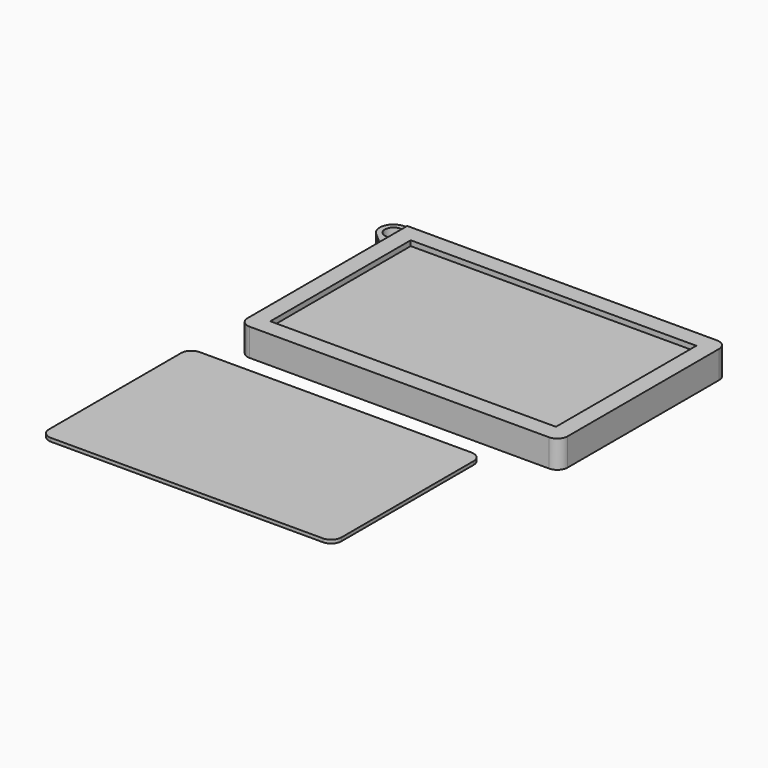
from build123d import *

# Parameters (mm, degrees)
F0_W          = 93
F0_H          = 61
F1_DEPTH      = 8
F2_R          = 3
F3_W          = 57
F3_H          = 1.5
F4_DEPTH      = 90
F5_W          = 83
F5_H          = 51
F6_DEPTH      = 1.5
F6_DEPTH_BACK = 25
F7_W          = 30
F7_H          = 3
F7_W_2        = 24
F8_DEPTH      = 80
F10_DEPTH     = 2
F12_DEPTH     = 5
F13_R         = 2.5
F14_DEPTH     = 5
F16_W         = 24
F16_H         = 3
F17_DEPTH     = 25
F19_DEPTH     = 1


with BuildPart() as f1:
    # F0 (on Top) → F1 (new body)
    with BuildSketch(Plane.XY):
        with Locations((46.5, 30.5)):
            Rectangle(F0_W, F0_H)
    extrude(amount=F1_DEPTH)

    # F2
    f2_edges = [f1.edges().sort_by_distance(p)[0] for p in [
        (93, 0, 4),
        (93, 61, 4),
        (0, 0, 4),
    ]]
    fillet(f2_edges, radius=F2_R)

    # F3 (on Right) → F4 (cut)
    with BuildSketch(Plane.YZ):
        with Locations((30.5, 5.75)):
            Rectangle(F3_W, F3_H)
    extrude(amount=F4_DEPTH, mode=Mode.SUBTRACT)

    # F5 (on face) → F6 (cut, two sides)
    with BuildSketch(Plane.XY.offset(8)) as f6_sk:
        with Locations((46.5, 30.5)):
            Rectangle(F5_W, F5_H)
    extrude(amount=-F6_DEPTH, mode=Mode.SUBTRACT)
    extrude(f6_sk.sketch, amount=F6_DEPTH_BACK, mode=Mode.SUBTRACT)

    # F7 (on face) → F8 (cut)
    with BuildSketch(Plane(origin=(0, 0, 0), x_dir=(0, -1, 0), z_dir=(-1, 0, 0))):
        with Locations((-17, 2.5)):
            Rectangle(F7_W, F7_H)
        with Locations((-47, 2.5)):
            Rectangle(F7_W_2, F7_H)
    extrude(amount=-F8_DEPTH, mode=Mode.SUBTRACT)

    # F9 (on face) → F10 (cut)
    with BuildSketch(Plane(origin=(0, 0, 0), x_dir=(1, 0, 0), z_dir=(0, 0, -1))):
        with BuildLine():
            Line((17, -5), (9, -5))
            ThreePointArc((9, -5), (8.2928932188, -5.2928932188), (8, -6))
            Line((8, -6), (8, -9))
            ThreePointArc((8, -9), (8.2928932188, -9.7071067812), (9, -10))
            Line((9, -10), (17, -10))
            ThreePointArc((17, -10), (17.7071067812, -9.7071067812), (18, -9))
            Line((18, -9), (18, -6))
            ThreePointArc((18, -6), (17.7071067812, -5.2928932188), (17, -5))
        make_face()
        with BuildLine():
            Line((17, -14.4), (9, -14.4))
            ThreePointArc((9, -14.4), (8.2928932188, -14.6928932188), (8, -15.4))
            Line((8, -15.4), (8, -18.4))
            ThreePointArc((8, -18.4), (8.2928932188, -19.1071067812), (9, -19.4))
            Line((9, -19.4), (17, -19.4))
            ThreePointArc((17, -19.4), (17.7071067812, -19.1071067812), (18, -18.4))
            Line((18, -18.4), (18, -15.4))
            ThreePointArc((18, -15.4), (17.7071067812, -14.6928932188), (17, -14.4))
        make_face()
        with BuildLine():
            Line((17, -23.8), (9, -23.8))
            ThreePointArc((9, -23.8), (8.2928932188, -24.0928932188), (8, -24.8))
            Line((8, -24.8), (8, -27.8))
            ThreePointArc((8, -27.8), (8.2928932188, -28.5071067812), (9, -28.8))
            Line((9, -28.8), (17, -28.8))
            ThreePointArc((17, -28.8), (17.7071067812, -28.5071067812), (18, -27.8))
            Line((18, -27.8), (18, -24.8))
            ThreePointArc((18, -24.8), (17.7071067812, -24.0928932188), (17, -23.8))
        make_face()
        with BuildLine():
            Line((32, -5), (24, -5))
            ThreePointArc((24, -5), (23.2928932188, -5.2928932188), (23, -6))
            Line((23, -6), (23, -9))
            ThreePointArc((23, -9), (23.2928932188, -9.7071067812), (24, -10))
            Line((24, -10), (32, -10))
            ThreePointArc((32, -10), (32.7071067812, -9.7071067812), (33, -9))
            Line((33, -9), (33, -6))
            ThreePointArc((33, -6), (32.7071067812, -5.2928932188), (32, -5))
        make_face()
        with BuildLine():
            Line((32, -14.4), (24, -14.4))
            ThreePointArc((24, -14.4), (23.2928932188, -14.6928932188), (23, -15.4))
            Line((23, -15.4), (23, -18.4))
            ThreePointArc((23, -18.4), (23.2928932188, -19.1071067812), (24, -19.4))
            Line((24, -19.4), (32, -19.4))
            ThreePointArc((32, -19.4), (32.7071067812, -19.1071067812), (33, -18.4))
            Line((33, -18.4), (33, -15.4))
            ThreePointArc((33, -15.4), (32.7071067812, -14.6928932188), (32, -14.4))
        make_face()
        with BuildLine():
            Line((32, -23.8), (24, -23.8))
            ThreePointArc((24, -23.8), (23.2928932188, -24.0928932188), (23, -24.8))
            Line((23, -24.8), (23, -27.8))
            ThreePointArc((23, -27.8), (23.2928932188, -28.5071067812), (24, -28.8))
            Line((24, -28.8), (32, -28.8))
            ThreePointArc((32, -28.8), (32.7071067812, -28.5071067812), (33, -27.8))
            Line((33, -27.8), (33, -24.8))
            ThreePointArc((33, -24.8), (32.7071067812, -24.0928932188), (32, -23.8))
        make_face()
        with BuildLine():
            Line((47, -5), (39, -5))
            ThreePointArc((39, -5), (38.2928932188, -5.2928932188), (38, -6))
            Line((38, -6), (38, -9))
            ThreePointArc((38, -9), (38.2928932188, -9.7071067812), (39, -10))
            Line((39, -10), (47, -10))
            ThreePointArc((47, -10), (47.7071067812, -9.7071067812), (48, -9))
            Line((48, -9), (48, -6))
            ThreePointArc((48, -6), (47.7071067812, -5.2928932188), (47, -5))
        make_face()
        with BuildLine():
            Line((47, -14.4), (39, -14.4))
            ThreePointArc((39, -14.4), (38.2928932188, -14.6928932188), (38, -15.4))
            Line((38, -15.4), (38, -18.4))
            ThreePointArc((38, -18.4), (38.2928932188, -19.1071067812), (39, -19.4))
            Line((39, -19.4), (47, -19.4))
            ThreePointArc((47, -19.4), (47.7071067812, -19.1071067812), (48, -18.4))
            Line((48, -18.4), (48, -15.4))
            ThreePointArc((48, -15.4), (47.7071067812, -14.6928932188), (47, -14.4))
        make_face()
        with BuildLine():
            Line((47, -23.8), (39, -23.8))
            ThreePointArc((39, -23.8), (38.2928932188, -24.0928932188), (38, -24.8))
            Line((38, -24.8), (38, -27.8))
            ThreePointArc((38, -27.8), (38.2928932188, -28.5071067812), (39, -28.8))
            Line((39, -28.8), (47, -28.8))
            ThreePointArc((47, -28.8), (47.7071067812, -28.5071067812), (48, -27.8))
            Line((48, -27.8), (48, -24.8))
            ThreePointArc((48, -24.8), (47.7071067812, -24.0928932188), (47, -23.8))
        make_face()
        with BuildLine():
            Line((62, -5), (54, -5))
            ThreePointArc((54, -5), (53.2928932188, -5.2928932188), (53, -6))
            Line((53, -6), (53, -9))
            ThreePointArc((53, -9), (53.2928932188, -9.7071067812), (54, -10))
            Line((54, -10), (62, -10))
            ThreePointArc((62, -10), (62.7071067812, -9.7071067812), (63, -9))
            Line((63, -9), (63, -6))
            ThreePointArc((63, -6), (62.7071067812, -5.2928932188), (62, -5))
        make_face()
        with BuildLine():
            Line((62, -14.4), (54, -14.4))
            ThreePointArc((54, -14.4), (53.2928932188, -14.6928932188), (53, -15.4))
            Line((53, -15.4), (53, -18.4))
            ThreePointArc((53, -18.4), (53.2928932188, -19.1071067812), (54, -19.4))
            Line((54, -19.4), (62, -19.4))
            ThreePointArc((62, -19.4), (62.7071067812, -19.1071067812), (63, -18.4))
            Line((63, -18.4), (63, -15.4))
            ThreePointArc((63, -15.4), (62.7071067812, -14.6928932188), (62, -14.4))
        make_face()
        with BuildLine():
            Line((62, -23.8), (54, -23.8))
            ThreePointArc((54, -23.8), (53.2928932188, -24.0928932188), (53, -24.8))
            Line((53, -24.8), (53, -27.8))
            ThreePointArc((53, -27.8), (53.2928932188, -28.5071067812), (54, -28.8))
            Line((54, -28.8), (62, -28.8))
            ThreePointArc((62, -28.8), (62.7071067812, -28.5071067812), (63, -27.8))
            Line((63, -27.8), (63, -24.8))
            ThreePointArc((63, -24.8), (62.7071067812, -24.0928932188), (62, -23.8))
        make_face()
        with BuildLine():
            Line((77, -5), (69, -5))
            ThreePointArc((69, -5), (68.2928932188, -5.2928932188), (68, -6))
            Line((68, -6), (68, -9))
            ThreePointArc((68, -9), (68.2928932188, -9.7071067812), (69, -10))
            Line((69, -10), (77, -10))
            ThreePointArc((77, -10), (77.7071067812, -9.7071067812), (78, -9))
            Line((78, -9), (78, -6))
            ThreePointArc((78, -6), (77.7071067812, -5.2928932188), (77, -5))
        make_face()
        with BuildLine():
            Line((77, -14.4), (69, -14.4))
            ThreePointArc((69, -14.4), (68.2928932188, -14.6928932188), (68, -15.4))
            Line((68, -15.4), (68, -18.4))
            ThreePointArc((68, -18.4), (68.2928932188, -19.1071067812), (69, -19.4))
            Line((69, -19.4), (77, -19.4))
            ThreePointArc((77, -19.4), (77.7071067812, -19.1071067812), (78, -18.4))
            Line((78, -18.4), (78, -15.4))
            ThreePointArc((78, -15.4), (77.7071067812, -14.6928932188), (77, -14.4))
        make_face()
        with BuildLine():
            Line((77, -23.8), (69, -23.8))
            ThreePointArc((69, -23.8), (68.2928932188, -24.0928932188), (68, -24.8))
            Line((68, -24.8), (68, -27.8))
            ThreePointArc((68, -27.8), (68.2928932188, -28.5071067812), (69, -28.8))
            Line((69, -28.8), (77, -28.8))
            ThreePointArc((77, -28.8), (77.7071067812, -28.5071067812), (78, -27.8))
            Line((78, -27.8), (78, -24.8))
            ThreePointArc((78, -24.8), (77.7071067812, -24.0928932188), (77, -23.8))
        make_face()
        with BuildLine():
            Line((23, -49.1565376878), (23, -52.1565376878))
            ThreePointArc((23, -52.1565376878), (23.2928932188, -52.863644469), (24, -53.1565376878))
            Line((24, -53.1565376878), (32, -53.1565376878))
            ThreePointArc((32, -53.1565376878), (32.7071067812, -52.863644469), (33, -52.1565376878))
            Line((33, -52.1565376878), (33, -49.1565376878))
            ThreePointArc((33, -49.1565376878), (32.7071067812, -48.4494309066), (32, -48.1565376878))
            Line((32, -48.1565376878), (24, -48.1565376878))
            ThreePointArc((24, -48.1565376878), (23.2928932188, -48.4494309066), (23, -49.1565376878))
        make_face()
        with BuildLine():
            ThreePointArc((77, -53.1565376878), (77.7071067812, -52.863644469), (78, -52.1565376878))
            Line((78, -52.1565376878), (78, -49.1565376878))
            ThreePointArc((78, -49.1565376878), (77.7071067812, -48.4494309066), (77, -48.1565376878))
            Line((77, -48.1565376878), (69, -48.1565376878))
            ThreePointArc((69, -48.1565376878), (68.2928932188, -48.4494309066), (68, -49.1565376878))
            Line((68, -49.1565376878), (68, -52.1565376878))
            ThreePointArc((68, -52.1565376878), (68.2928932188, -52.863644469), (69, -53.1565376878))
            Line((69, -53.1565376878), (77, -53.1565376878))
        make_face()
        with BuildLine():
            ThreePointArc((47, -53.1565376878), (47.7071067812, -52.863644469), (48, -52.1565376878))
            Line((48, -52.1565376878), (48, -49.1565376878))
            ThreePointArc((48, -49.1565376878), (47.7071067812, -48.4494309066), (47, -48.1565376878))
            Line((47, -48.1565376878), (39, -48.1565376878))
            ThreePointArc((39, -48.1565376878), (38.2928932188, -48.4494309066), (38, -49.1565376878))
            Line((38, -49.1565376878), (38, -52.1565376878))
            ThreePointArc((38, -52.1565376878), (38.2928932188, -52.863644469), (39, -53.1565376878))
            Line((39, -53.1565376878), (47, -53.1565376878))
        make_face()
        with BuildLine():
            ThreePointArc((63, -39.7565376878), (62.7071067812, -39.0494309066), (62, -38.7565376878))
            Line((62, -38.7565376878), (54, -38.7565376878))
            ThreePointArc((54, -38.7565376878), (53.2928932188, -39.0494309066), (53, -39.7565376878))
            Line((53, -39.7565376878), (53, -42.7565376878))
            ThreePointArc((53, -42.7565376878), (53.2928932188, -43.463644469), (54, -43.7565376878))
            Line((54, -43.7565376878), (62, -43.7565376878))
            ThreePointArc((62, -43.7565376878), (62.7071067812, -43.463644469), (63, -42.7565376878))
            Line((63, -42.7565376878), (63, -39.7565376878))
        make_face()
        with BuildLine():
            Line((8, -49.1565376878), (8, -52.1565376878))
            ThreePointArc((8, -52.1565376878), (8.2928932188, -52.863644469), (9, -53.1565376878))
            Line((9, -53.1565376878), (17, -53.1565376878))
            ThreePointArc((17, -53.1565376878), (17.7071067812, -52.863644469), (18, -52.1565376878))
            Line((18, -52.1565376878), (18, -49.1565376878))
            ThreePointArc((18, -49.1565376878), (17.7071067812, -48.4494309066), (17, -48.1565376878))
            Line((17, -48.1565376878), (9, -48.1565376878))
            ThreePointArc((9, -48.1565376878), (8.2928932188, -48.4494309066), (8, -49.1565376878))
        make_face()
        with BuildLine():
            ThreePointArc((8, -42.7565376878), (8.2928932188, -43.463644469), (9, -43.7565376878))
            Line((9, -43.7565376878), (17, -43.7565376878))
            ThreePointArc((17, -43.7565376878), (17.7071067812, -43.463644469), (18, -42.7565376878))
            Line((18, -42.7565376878), (18, -39.7565376878))
            ThreePointArc((18, -39.7565376878), (17.7071067812, -39.0494309066), (17, -38.7565376878))
            Line((17, -38.7565376878), (9, -38.7565376878))
            ThreePointArc((9, -38.7565376878), (8.2928932188, -39.0494309066), (8, -39.7565376878))
            Line((8, -39.7565376878), (8, -42.7565376878))
        make_face()
        with BuildLine():
            Line((68, -39.7565376878), (68, -42.7565376878))
            ThreePointArc((68, -42.7565376878), (68.2928932188, -43.463644469), (69, -43.7565376878))
            Line((69, -43.7565376878), (77, -43.7565376878))
            ThreePointArc((77, -43.7565376878), (77.7071067812, -43.463644469), (78, -42.7565376878))
            Line((78, -42.7565376878), (78, -39.7565376878))
            ThreePointArc((78, -39.7565376878), (77.7071067812, -39.0494309066), (77, -38.7565376878))
            Line((77, -38.7565376878), (69, -38.7565376878))
            ThreePointArc((69, -38.7565376878), (68.2928932188, -39.0494309066), (68, -39.7565376878))
        make_face()
        with BuildLine():
            Line((38, -39.7565376878), (38, -42.7565376878))
            ThreePointArc((38, -42.7565376878), (38.2928932188, -43.463644469), (39, -43.7565376878))
            Line((39, -43.7565376878), (47, -43.7565376878))
            ThreePointArc((47, -43.7565376878), (47.7071067812, -43.463644469), (48, -42.7565376878))
            Line((48, -42.7565376878), (48, -39.7565376878))
            ThreePointArc((48, -39.7565376878), (47.7071067812, -39.0494309066), (47, -38.7565376878))
            Line((47, -38.7565376878), (39, -38.7565376878))
            ThreePointArc((39, -38.7565376878), (38.2928932188, -39.0494309066), (38, -39.7565376878))
        make_face()
        with BuildLine():
            Line((53, -49.1565376878), (53, -52.1565376878))
            ThreePointArc((53, -52.1565376878), (53.2928932188, -52.863644469), (54, -53.1565376878))
            Line((54, -53.1565376878), (62, -53.1565376878))
            ThreePointArc((62, -53.1565376878), (62.7071067812, -52.863644469), (63, -52.1565376878))
            Line((63, -52.1565376878), (63, -49.1565376878))
            ThreePointArc((63, -49.1565376878), (62.7071067812, -48.4494309066), (62, -48.1565376878))
            Line((62, -48.1565376878), (54, -48.1565376878))
            ThreePointArc((54, -48.1565376878), (53.2928932188, -48.4494309066), (53, -49.1565376878))
        make_face()
        with BuildLine():
            ThreePointArc((24, -38.7565376878), (23.2928932188, -39.0494309066), (23, -39.7565376878))
            Line((23, -39.7565376878), (23, -42.7565376878))
            ThreePointArc((23, -42.7565376878), (23.2928932188, -43.463644469), (24, -43.7565376878))
            Line((24, -43.7565376878), (32, -43.7565376878))
            ThreePointArc((32, -43.7565376878), (32.7071067812, -43.463644469), (33, -42.7565376878))
            Line((33, -42.7565376878), (33, -39.7565376878))
            ThreePointArc((33, -39.7565376878), (32.7071067812, -39.0494309066), (32, -38.7565376878))
            Line((32, -38.7565376878), (24, -38.7565376878))
        make_face()
    extrude(amount=-F10_DEPTH, mode=Mode.SUBTRACT)

    # F11 (on Top) → F12 (join)
    with BuildSketch(Plane.XY):
        with BuildLine():
            Line((5.8608222753, 61), (-2.3774172626, 64.6561216146))
            ThreePointArc((-2.3774172626, 64.6561216146), (-7.3996499765, 63.1076954327), (-6.5531423502, 57.9208013803))
            Line((-6.5531423502, 57.9208013803), (0, 52.2493869066))
            Line((0, 52.2493869066), (0.8956727688, 60.1852275431))
            Line((0.8956727688, 60.1852275431), (5.8608222753, 61))
        make_face()
    extrude(amount=F12_DEPTH)

    # F13 (on face) → F14 (cut)
    with BuildSketch(Plane.XY.offset(5)):
        with Locations((-4, 61)):
            Circle(F13_R)
    extrude(amount=-F14_DEPTH, mode=Mode.SUBTRACT)

    # F16 (on offset) → F17 (cut)
    with BuildSketch(Plane.YZ.offset(5)):
        with Locations((47, 2.5)):
            Rectangle(F16_W, F16_H)
    extrude(amount=-F17_DEPTH, mode=Mode.SUBTRACT)


with BuildPart() as f19:
    # F18 (on Top) → F19 (new body)
    with BuildSketch(Plane.XY):
        with BuildLine():
            Line((72.5435722135, -6.3374559352), (-6.4564277865, -6.3374559352))
            ThreePointArc((-6.4564277865, -6.3374559352), (-8.5777481301, -7.2161355917), (-9.4564277865, -9.3374559352))
            Line((-9.4564277865, -9.3374559352), (-9.4564277865, -57.3374559352))
            ThreePointArc((-9.4564277865, -57.3374559352), (-8.5777481301, -59.4587762788), (-6.4564277865, -60.3374559352))
            Line((-6.4564277865, -60.3374559352), (72.5435722135, -60.3374559352))
            ThreePointArc((72.5435722135, -60.3374559352), (74.6648925571, -59.4587762788), (75.5435722135, -57.3374559352))
            Line((75.5435722135, -57.3374559352), (75.5435722135, -9.3374559352))
            ThreePointArc((75.5435722135, -9.3374559352), (74.6648925571, -7.2161355917), (72.5435722135, -6.3374559352))
        make_face()
    extrude(amount=F19_DEPTH)


solid = Compound([f1.part, f19.part])
